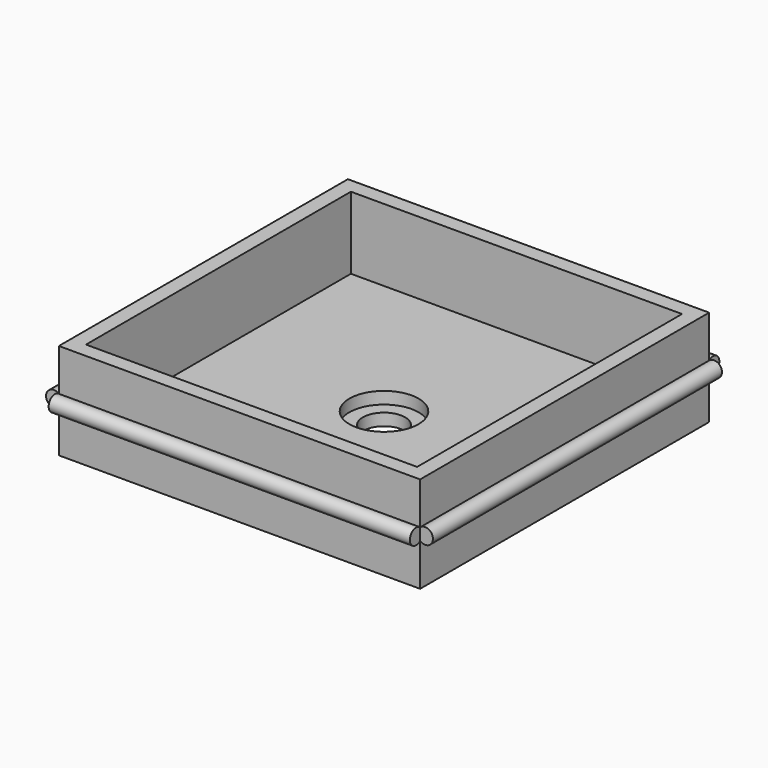
from build123d import *

# Parameters (mm, degrees)
F0_W          = 60
F0_H          = 60
F0_R          = 3.5
F1_DEPTH      = 8
F1_DEPTH_BACK = 8
F2_R          = 5.75
F3_DEPTH      = 14
F5_DEPTH      = 60
F8_DEPTH      = 60
F10_W         = 55
F10_H         = 55
F11_DEPTH     = 12


with BuildPart() as f1:
    # F0 (on Top) → F1 (new body, two sides)
    with BuildSketch(Plane.XY) as f1_sk:
        Rectangle(F0_W, F0_H)
        Circle(F0_R, mode=Mode.SUBTRACT)
    extrude(amount=F1_DEPTH)
    extrude(f1_sk.sketch, amount=-F1_DEPTH_BACK)

    # F2 (on face) → F3 (cut)
    with BuildSketch(Plane.XY.offset(8)):
        Circle(F2_R)
    extrude(amount=-F3_DEPTH, mode=Mode.SUBTRACT)

    # F4 (on face) → F5 (join)
    with BuildSketch(Plane(origin=(-30, 0, 0), x_dir=(0, -1, 0), z_dir=(-1, 0, 0))):
        with BuildLine():
            ThreePointArc((-30, 1), (-32.1306623863, 0), (-30, -1))
            Line((-30, -1), (-30, 1))
        make_face()
    extrude(amount=-F5_DEPTH)

    # F6: F1 across plane


with BuildPart() as f1_1:
    add(f1.part)
    add(f1.part.mirror(Plane.XZ))

    # F7 (on face) → F8 (join)
    with BuildSketch(Plane(origin=(0, 30, 0), x_dir=(-1, 0, 0), z_dir=(0, 1, 0))):
        with BuildLine():
            ThreePointArc((30, -1), (32.1306623863, 0), (30, 1))
            Line((30, 1), (30, -1))
        make_face()
    extrude(amount=-F8_DEPTH)

    # F9: F1 across plane


with BuildPart() as f1_2:
    add(f1_1.part)
    add(f1_1.part.mirror(Plane.YZ))

    # F10 (on face) → F11 (cut)
    with BuildSketch(Plane.XY.offset(8)):
        Rectangle(F10_W, F10_H)
    extrude(amount=-F11_DEPTH, mode=Mode.SUBTRACT)


solid = f1_2.part
